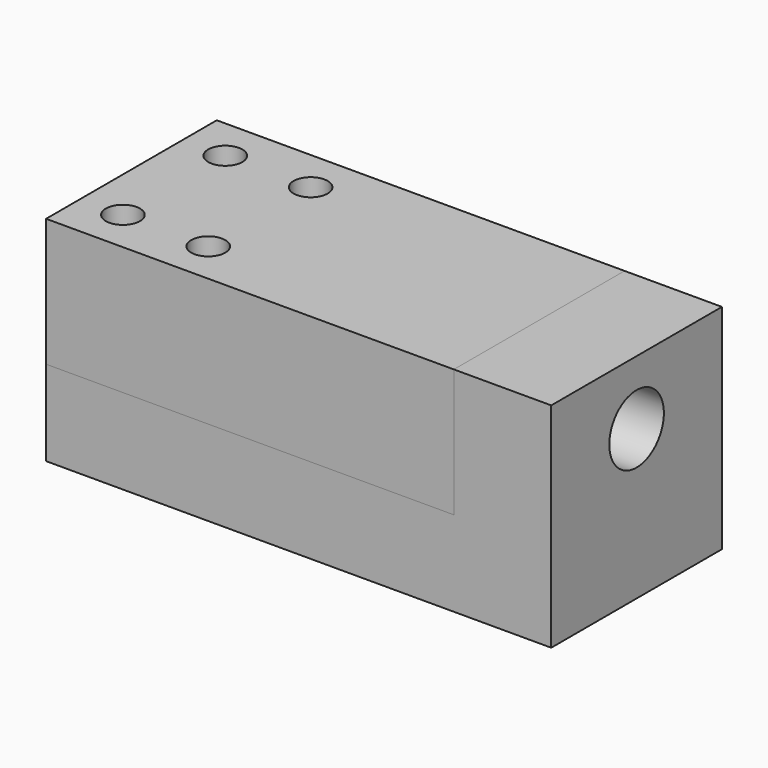
from build123d import *

# Parameters (mm, degrees)
F0_W      = 59.18919
F0_H      = 25
F0_W_2    = 48.91892
F0_H_2    = 10
F1_DEPTH  = 10
F2_W      = 11.408696
F2_H      = 25
F3_DEPTH  = 15
F4_DEPTH  = 10
F5_R      = 4
F6_DEPTH  = 25
F8_W      = 42.645359
F8_H      = 10
F9_DEPTH  = 10
F11_W     = 47.780494
F11_H     = 25
F12_DEPTH = 15
F14_R     = 4
F15_DEPTH = 47.781494
F16_W     = 20
F16_H     = 10
F16_R     = 2
F17_DEPTH = 10
F18_R     = 2
F19_DEPTH = 10


with BuildPart() as f1:
    # F0 (on Top) → F1 (new body)
    with BuildSketch(Plane.XY):
        Rectangle(F0_W, F0_H)
        Rectangle(F0_W_2, F0_H_2, mode=Mode.SUBTRACT)
    extrude(amount=F1_DEPTH)

    # F2 (on face) → F3 (join)
    with BuildSketch(Plane.XY.offset(10)):
        with Locations((23.890247, 0)):
            Rectangle(F2_W, F2_H)
    extrude(amount=F3_DEPTH)

    # F2 (on face) → F4 (join)
    with BuildSketch(Plane.XY.offset(10)):
        with Locations((23.890247, 0)):
            Rectangle(F2_W, F2_H)
    extrude(amount=-F4_DEPTH)

    # F5 (on face) → F6 (cut)
    with BuildSketch(Plane(origin=(18.185899, 0, 0), x_dir=(0, -1, 0), z_dir=(-1, 0, 0))):
        with Locations((0, 17.5)):
            Circle(F5_R)
    extrude(amount=-F6_DEPTH, mode=Mode.SUBTRACT)


with BuildPart() as f7_1:
    # F7: copy of F1
    add(f1.part)


with BuildPart() as f9:
    # F8 (on face) → F9 (new body)
    with BuildSketch(Plane(origin=(0, 0, 0), x_dir=(1, 0, 0), z_dir=(0, 0, -1))):
        with Locations((-3.136781, 0)):
            Rectangle(F8_W, F8_H)
    extrude(amount=-F9_DEPTH)


with BuildPart() as f12:
    # F11 (on face) → F12 (new body)
    with BuildSketch(Plane.XY.offset(10)):
        with Locations((-5.704348, 0)):
            Rectangle(F11_W, F11_H)
    extrude(amount=F12_DEPTH)


with BuildPart() as f9_1:
    add(f9.part)

    # F13: union F12
    add(f12.part)

    # F14 (on face) → F15 (cut, through all)
    with BuildSketch(Plane.YZ.offset(18.185899)):
        with Locations((0, 17.5)):
            Circle(F14_R)
    extrude(amount=-F15_DEPTH, mode=Mode.SUBTRACT)

    # F16 (on face) → F17 (cut)
    with BuildSketch(Plane(origin=(0, 0, 0), x_dir=(1, 0, 0), z_dir=(0, 0, -1))):
        with Locations((-14.45946, 0)):
            Rectangle(F16_W, F16_H)
        with Locations((11.185899, 0)):
            Circle(F16_R)
        with Locations((2.54054, 0)):
            Circle(F16_R)
    extrude(amount=-F17_DEPTH, mode=Mode.SUBTRACT)

    # F18 (on face) → F19 (cut)
    with BuildSketch(Plane.XY.offset(25)):
        with Locations((-24.594595, 7.5)):
            Circle(F18_R)
        with Locations((-24.594595, -7.5)):
            Circle(F18_R)
        with Locations((-14.594595, 7.5)):
            Circle(F18_R)
        with Locations((-14.594595, -7.5)):
            Circle(F18_R)
    extrude(amount=-F19_DEPTH, mode=Mode.SUBTRACT)


solid = Compound([f1.part, f7_1.part, f9_1.part])
